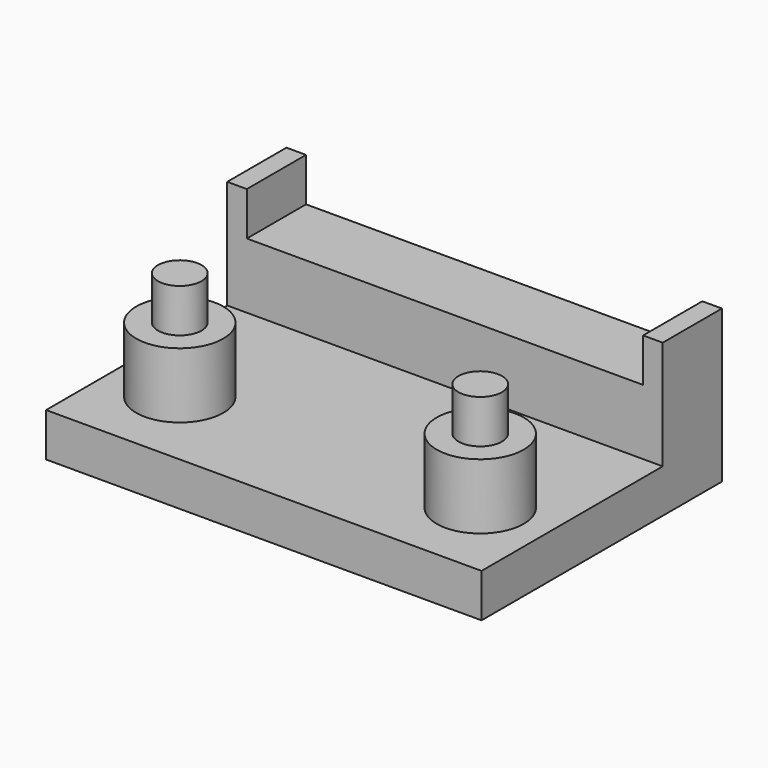
from build123d import *

# Parameters (mm, degrees)
F0_W     = 25.4
F0_H     = 17.526
F1_DEPTH = 2.54
F2_W     = 25.4
F2_H     = 4.318
F2_R     = 2.54
F3_DEPTH = 3.81
F4_W     = 1.143
F4_H     = 4.318
F4_R     = 1.27
F5_DEPTH = 2.54


with BuildPart() as f1:
    # F0 (on Top) → F1 (new body)
    with BuildSketch(Plane.XY):
        Rectangle(F0_W, F0_H)
    extrude(amount=F1_DEPTH)

    # F2 (on face) → F3 (join)
    with BuildSketch(Plane.XY.offset(2.54)):
        with Locations((0, 6.604)):
            Rectangle(F2_W, F2_H)
        with Locations((-8.763, -3.937)):
            Circle(F2_R)
        with Locations((8.763, -3.937)):
            Circle(F2_R)
    extrude(amount=F3_DEPTH)

    # F4 (on face) → F5 (join)
    with BuildSketch(Plane.XY.offset(6.35)):
        with Locations((-12.1285, 6.604)):
            Rectangle(F4_W, F4_H)
        with Locations((12.1285, 6.604)):
            Rectangle(F4_W, F4_H)
        with Locations((-8.763, -3.937)):
            Circle(F4_R)
        with Locations((8.763, -3.937)):
            Circle(F4_R)
    extrude(amount=F5_DEPTH)


solid = f1.part
